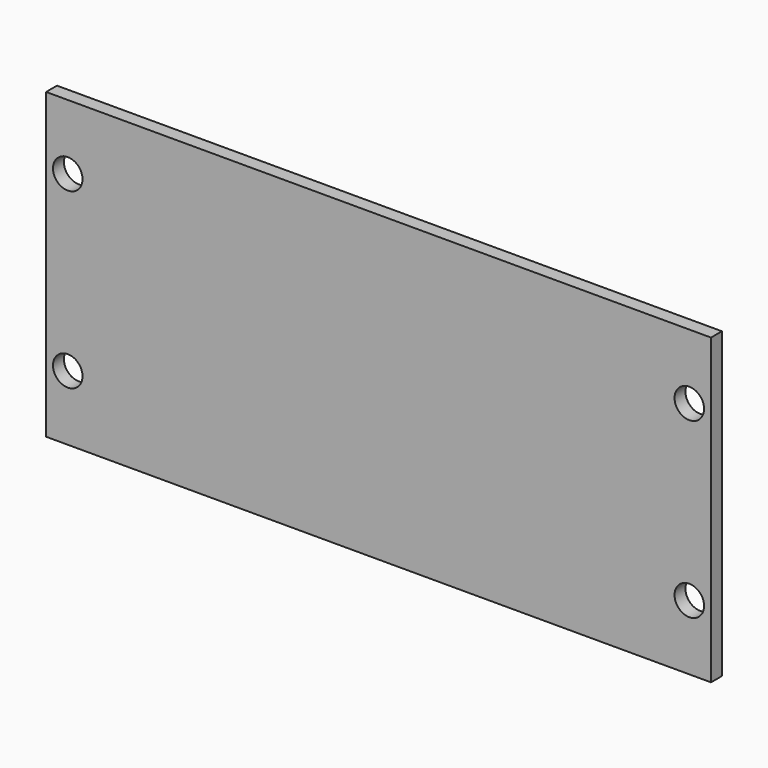
from build123d import *

# Parameters (mm, degrees)
F0_W     = 146.05
F0_H     = 66.675
F0_R     = 3.24
F1_DEPTH = 3


with BuildPart() as f1:
    # F0 (on Front) → F1 (new body)
    with BuildSketch(Plane.XZ):
        Rectangle(F0_W, F0_H)
        with Locations((-68.262, -19.0495)):
            Circle(F0_R, mode=Mode.SUBTRACT)
        with Locations((68.262, -19.0495)):
            Circle(F0_R, mode=Mode.SUBTRACT)
        with Locations((-68.262, 19.0495)):
            Circle(F0_R, mode=Mode.SUBTRACT)
        with Locations((68.262, 19.0495)):
            Circle(F0_R, mode=Mode.SUBTRACT)
    extrude(amount=-F1_DEPTH)


solid = f1.part
